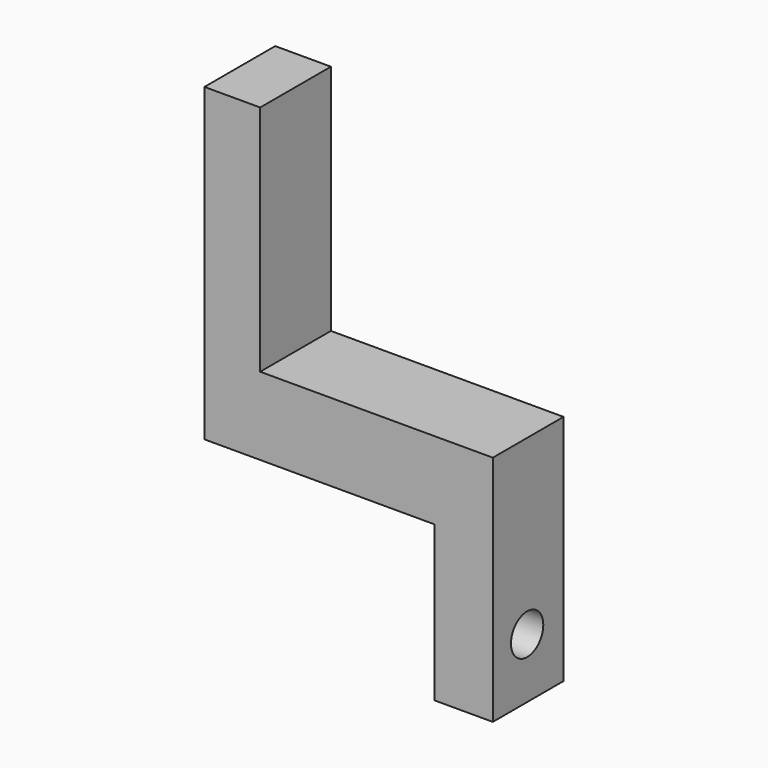
from build123d import *

# Parameters (mm, degrees)
F1_DEPTH = 9.652
F2_R     = 2.203637
F3_DEPTH = 25.4


with BuildPart() as f1:
    # F0 (on Front) → F1 (new body)
    with BuildSketch(Plane.XZ):
        Polygon((-44.798229, 15.301452), (-44.798229, 40.701452), (-50.881937, 40.701452), (-50.881937, 6.821129), (-25.748229, 6.821129), (-25.748229, -10.098548), (-19.398229, -10.098548), (-19.398229, 15.301452), align=None)
    extrude(amount=F1_DEPTH)

    # F2 (on face) → F3 (cut)
    with BuildSketch(Plane.YZ.offset(-19.398229)):
        with Locations((-4.968156, -3.569771)):
            Circle(F2_R)
    extrude(amount=-F3_DEPTH, mode=Mode.SUBTRACT)


solid = f1.part
